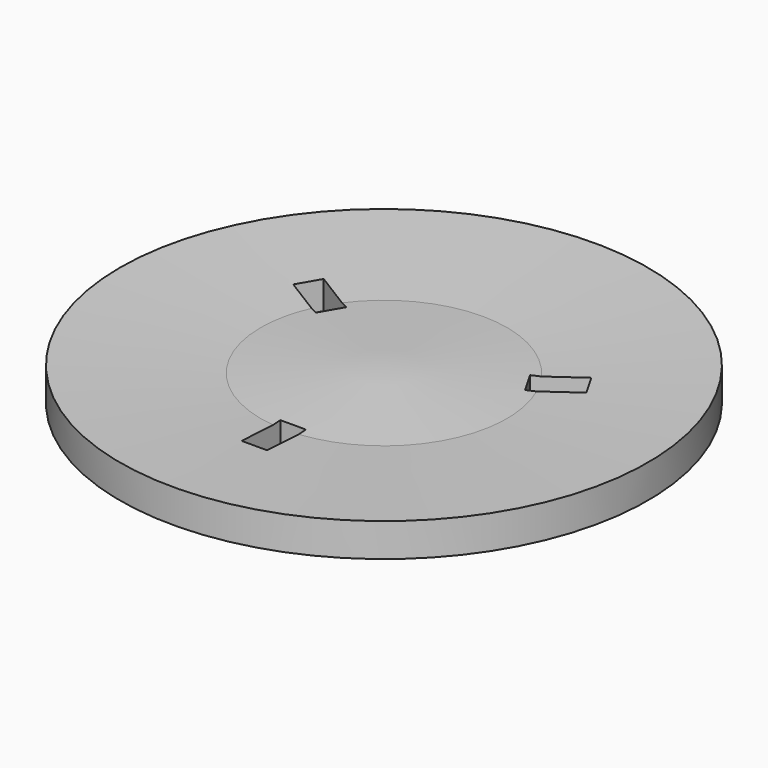
from build123d import *

# Parameters (mm, degrees)
F2_W     = 14.5
F2_H     = 27.5
F3_DEPTH = 16.1152611814


with BuildPart() as f1:
    # F0 (on Front) → F1 (revolve)
    with BuildSketch(Plane.XZ):
        Polygon((-150, 0), (-70, 0), (-70, 15), (-150, 19), align=None)
        Polygon((-70, 0), (0, 0), (0, 19), (-70, 15), align=None)
    revolve(axis=Axis((0, 0, 9.5), (0, 0, 1)))

    # F2 (on face) → F3 (cut, through all)
    with BuildSketch(Plane(origin=(0, 0, 0), x_dir=(1, 0, 0), z_dir=(0, 0, -1))):
        with Locations((0, 78.25)):
            Rectangle(F2_W, F2_H)
        Polygon((-52.2336385441, -38.5286841774), (-59.4836385441, -25.9713158226), (-83.2993371482, -39.7213158226), (-76.0493371482, -52.2786841774), align=None)
        Polygon((59.4836385441, -25.9713158226), (52.2336385441, -38.5286841774), (76.0493371482, -52.2786841774), (83.2993371482, -39.7213158226), align=None)
    extrude(amount=-F3_DEPTH, mode=Mode.SUBTRACT)


solid = f1.part
